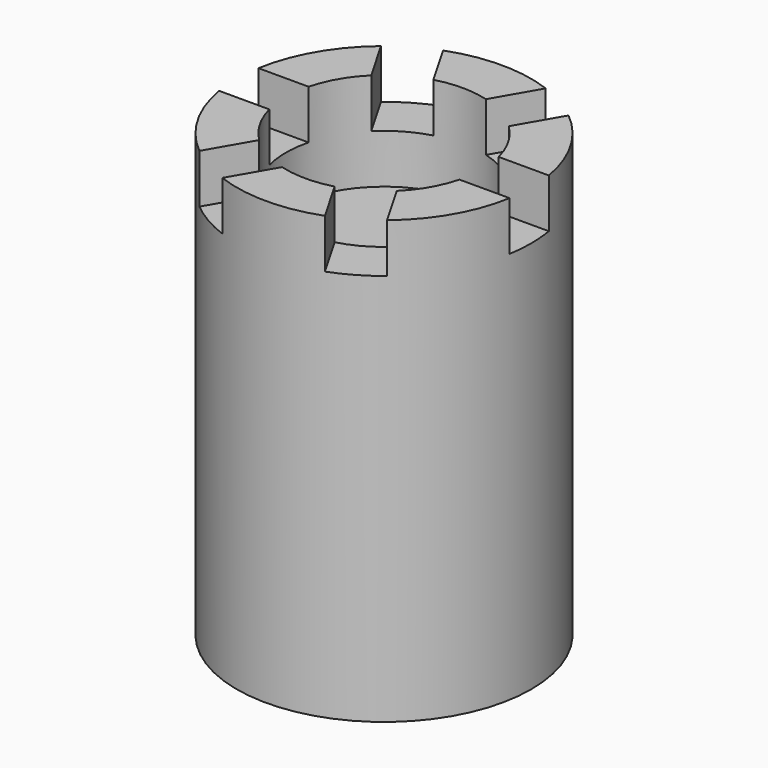
from build123d import *

# Parameters (mm, degrees)
BOX_W             = 20
BOX_H             = 10
BOX_DEPTH         = 10
ARRAY_COUNT       = 6
CYLINDER001_R     = 20
CYLINDER001_DEPTH = 20
CYLINDER_R        = 30
CYLINDER_DEPTH    = 90


with BuildPart() as array_almenas:
    # Box → Box (new body)
    with BuildSketch(Plane(origin=(15, -5, 80), x_dir=(1, 0, 0), z_dir=(0, 0, 1))):
        with Locations((10, 5)):
            Rectangle(BOX_W, BOX_H)
    extrude(amount=BOX_DEPTH)

    # Array: Array_almenas ×6 about axis
    array_axis = Axis((0, 0, 0), (0, 0, 1))


with BuildPart() as array_almenas_1:
    add(array_almenas.part)
    for i in range(1, ARRAY_COUNT):
        add(array_almenas.part.rotate(array_axis, i * 360 / ARRAY_COUNT))


with BuildPart() as vaciadotorre:
    # Cylinder001 → Cylinder001 (new body)
    with BuildSketch(Plane.XY.offset(70)):
        Circle(CYLINDER001_R)
    extrude(amount=CYLINDER001_DEPTH)


with BuildPart() as obj1:
    # Cylinder → Cylinder (new body)
    with BuildSketch(Plane.XY):
        Circle(CYLINDER_R)
    extrude(amount=CYLINDER_DEPTH)

    # Cut: cut VaciadoTorre
    add(vaciadotorre.part, mode=Mode.SUBTRACT)

    # Cut001: cut Array_almenas
    add(array_almenas_1.part, mode=Mode.SUBTRACT)


solid = obj1.part
